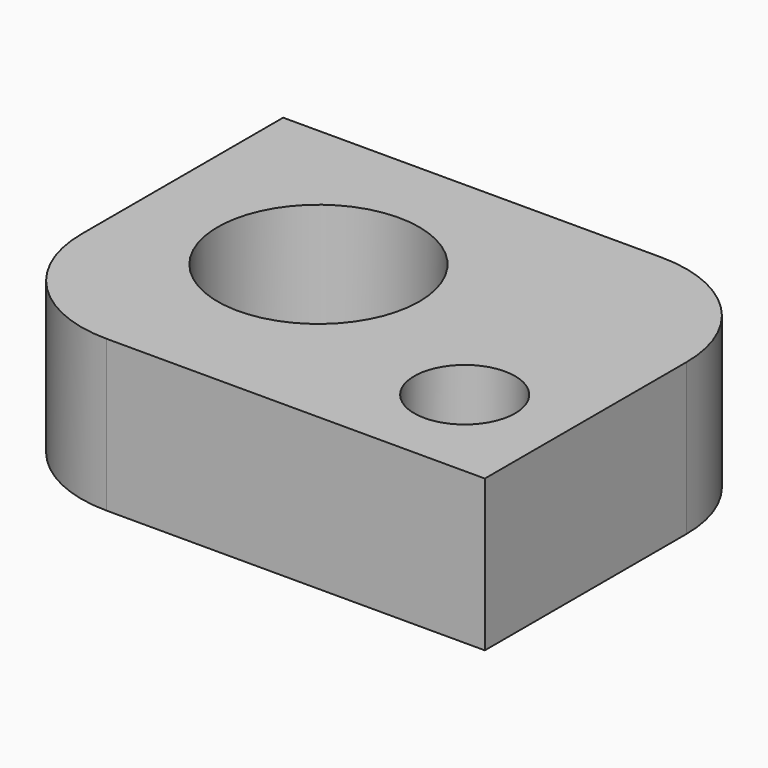
from build123d import *

# Parameters (mm, degrees)
F0_W     = 20
F0_H     = 15
F0_R     = 2
F0_R_2   = 4
F1_DEPTH = 6
F2_R     = 5


with BuildPart() as f1:
    # F0 (on Top) → F1 (new body)
    with BuildSketch(Plane.XY):
        with Locations((-56.680365, -19.955656)):
            Rectangle(F0_W, F0_H)
        with Locations((-50.680365, -23.455656)):
            Circle(F0_R, mode=Mode.SUBTRACT)
        with Locations((-59.680365, -19.455656)):
            Circle(F0_R_2, mode=Mode.SUBTRACT)
    extrude(amount=F1_DEPTH)

    # F2
    f2_edges = [f1.edges().sort_by_distance(p)[0] for p in [
        (-46.680365, -12.455656, 3),
        (-66.680365, -27.455656, 3),
    ]]
    fillet(f2_edges, radius=F2_R)


solid = f1.part
